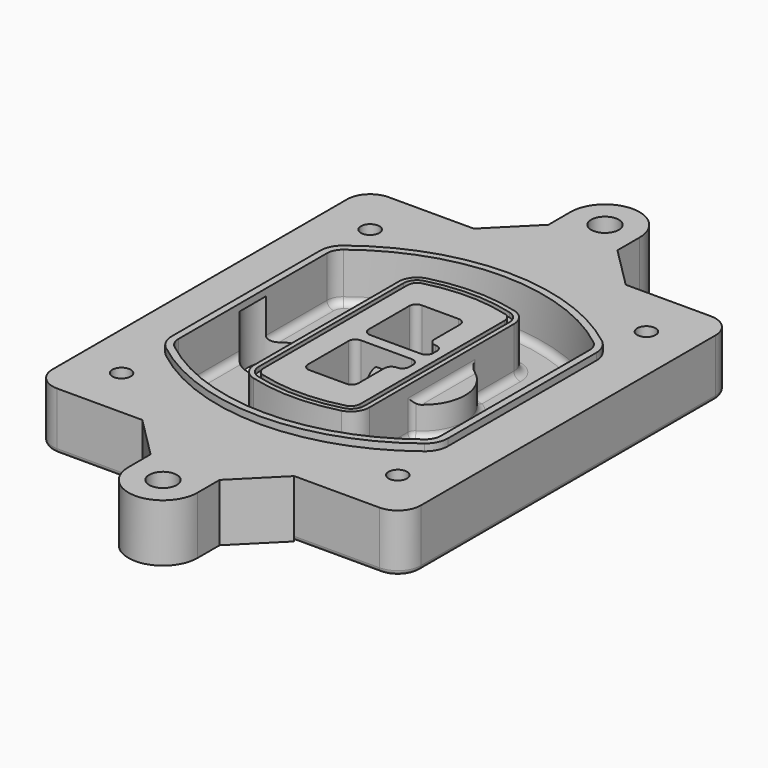
from build123d import *

# Parameters (mm, degrees)
F0_R      = 4
F1_DEPTH  = 25
F2_DEPTH  = 3
F3_DEPTH  = 18
F5_DEPTH  = 21
F6_DEPTH  = 2
F8_DEPTH  = 20
F9_DEPTH  = 16
F10_DEPTH = 25
F7_R      = 6
F7_R_2    = 4
F11_DEPTH = 6
F13_DEPTH = 9
F14_R     = 3
F15_R     = 2
F16_R     = 6
F17_DEPTH = 25


with BuildPart() as f1:
    # F0 (on Top) → F1 (new body)
    with BuildSketch(Plane.XY):
        with BuildLine():
            ThreePointArc((-80, -80), (-77.0710678119, -87.0710678119), (-70, -90))
            Line((-70, -90), (70, -90))
            ThreePointArc((70, -90), (77.0710678119, -87.0710678119), (80, -80))
            Line((80, -80), (80, 80))
            ThreePointArc((80, 80), (77.0710678119, 87.0710678119), (70, 90))
            Line((70, 90), (-70, 90))
            ThreePointArc((-70, 90), (-77.0710678119, 87.0710678119), (-80, 80))
            Line((-80, 80), (-80, -80))
        make_face()
        with Locations((-60, -67.5)):
            Circle(F0_R, mode=Mode.SUBTRACT)
        with Locations((60, -67.5)):
            Circle(F0_R, mode=Mode.SUBTRACT)
        with Locations((-60, 67.5)):
            Circle(F0_R, mode=Mode.SUBTRACT)
        with BuildLine():
            ThreePointArc((-64, 40.2934422872), (-62.5820384798, 46.4328484224), (-58.6153846154, 51.3286200352))
            ThreePointArc((-58.6153846154, 51.3286200352), (0, 71.5), (58.6153846154, 51.3286200352))
            ThreePointArc((58.6153846154, 51.3286200352), (62.5820384798, 46.4328484224), (64, 40.2934422872))
            Line((64, 40.2934422872), (64, -40.2934422872))
            ThreePointArc((64, -40.2934422872), (62.5820384798, -46.4328484224), (58.6153846154, -51.3286200352))
            ThreePointArc((58.6153846154, -51.3286200352), (0, -71.5), (-58.6153846154, -51.3286200352))
            ThreePointArc((-58.6153846154, -51.3286200352), (-62.5820384798, -46.4328484224), (-64, -40.2934422872))
            Line((-64, -40.2934422872), (-64, 40.2934422872))
        make_face(mode=Mode.SUBTRACT)
        with Locations((60, 67.5)):
            Circle(F0_R, mode=Mode.SUBTRACT)
        with BuildLine():
            ThreePointArc((58.6153846154, 51.3286200352), (0, 71.5), (-58.6153846154, 51.3286200352))
            ThreePointArc((-58.6153846154, 51.3286200352), (-62.5820384798, 46.4328484224), (-64, 40.2934422872))
            Line((-64, 40.2934422872), (-64, -40.2934422872))
            ThreePointArc((-64, -40.2934422872), (-62.5820384798, -46.4328484224), (-58.6153846154, -51.3286200352))
            ThreePointArc((-58.6153846154, -51.3286200352), (0, -71.5), (58.6153846154, -51.3286200352))
            ThreePointArc((58.6153846154, -51.3286200352), (62.5820384798, -46.4328484224), (64, -40.2934422872))
            Line((64, -40.2934422872), (64, 40.2934422872))
            ThreePointArc((64, 40.2934422872), (62.5820384798, 46.4328484224), (58.6153846154, 51.3286200352))
        make_face()
        with BuildLine():
            Line((-60, -40.2934422872), (-60, 40.2934422872))
            ThreePointArc((-60, 40.2934422872), (-58.9871703427, 44.6787323838), (-56.1538461538, 48.1757121072))
            ThreePointArc((-56.1538461538, 48.1757121072), (0, 67.5), (56.1538461538, 48.1757121072))
            ThreePointArc((56.1538461538, 48.1757121072), (58.9871703427, 44.6787323838), (60, 40.2934422872))
            Line((60, 40.2934422872), (60, -40.2934422872))
            ThreePointArc((60, -40.2934422872), (58.9871703427, -44.6787323838), (56.1538461538, -48.1757121072))
            ThreePointArc((56.1538461538, -48.1757121072), (0, -67.5), (-56.1538461538, -48.1757121072))
            ThreePointArc((-56.1538461538, -48.1757121072), (-58.9871703427, -44.6787323838), (-60, -40.2934422872))
        make_face(mode=Mode.SUBTRACT)
        with BuildLine():
            ThreePointArc((-56.1538461538, 48.1757121072), (-58.9871703427, 44.6787323838), (-60, 40.2934422872))
            Line((-60, 40.2934422872), (-60, -40.2934422872))
            ThreePointArc((-60, -40.2934422872), (-58.9871703427, -44.6787323838), (-56.1538461538, -48.1757121072))
            ThreePointArc((-56.1538461538, -48.1757121072), (0, -67.5), (56.1538461538, -48.1757121072))
            ThreePointArc((56.1538461538, -48.1757121072), (58.9871703427, -44.6787323838), (60, -40.2934422872))
            Line((60, -40.2934422872), (60, 40.2934422872))
            ThreePointArc((60, 40.2934422872), (58.9871703427, 44.6787323838), (56.1538461538, 48.1757121072))
            ThreePointArc((56.1538461538, 48.1757121072), (0, 67.5), (-56.1538461538, 48.1757121072))
        make_face()
        with BuildLine():
            ThreePointArc((54.3076923077, 45.8110311612), (56.2910192399, 43.3631453548), (57, 40.2934422872))
            Line((57, 40.2934422872), (57, -40.2934422872))
            ThreePointArc((57, -40.2934422872), (56.2910192399, -43.3631453548), (54.3076923077, -45.8110311612))
            ThreePointArc((54.3076923077, -45.8110311612), (0, -64.5), (-54.3076923077, -45.8110311612))
            ThreePointArc((-54.3076923077, -45.8110311612), (-56.2910192399, -43.3631453548), (-57, -40.2934422872))
            Line((-57, -40.2934422872), (-57, 40.2934422872))
            ThreePointArc((-57, 40.2934422872), (-56.2910192399, 43.3631453548), (-54.3076923077, 45.8110311612))
            ThreePointArc((-54.3076923077, 45.8110311612), (0, 64.5), (54.3076923077, 45.8110311612))
        make_face(mode=Mode.SUBTRACT)
        with BuildLine():
            Line((57, -40.2934422872), (57, 40.2934422872))
            ThreePointArc((57, 40.2934422872), (56.2910192399, 43.3631453548), (54.3076923077, 45.8110311612))
            ThreePointArc((54.3076923077, 45.8110311612), (0, 64.5), (-54.3076923077, 45.8110311612))
            ThreePointArc((-54.3076923077, 45.8110311612), (-56.2910192399, 43.3631453548), (-57, 40.2934422872))
            Line((-57, 40.2934422872), (-57, -40.2934422872))
            ThreePointArc((-57, -40.2934422872), (-56.2910192399, -43.3631453548), (-54.3076923077, -45.8110311612))
            ThreePointArc((-54.3076923077, -45.8110311612), (0, -64.5), (54.3076923077, -45.8110311612))
            ThreePointArc((54.3076923077, -45.8110311612), (56.2910192399, -43.3631453548), (57, -40.2934422872))
        make_face()
    extrude(amount=-F1_DEPTH)

    # F0 (on Top) → F2 (join)
    with BuildSketch(Plane.XY):
        with BuildLine():
            ThreePointArc((-56.1538461538, 48.1757121072), (-58.9871703427, 44.6787323838), (-60, 40.2934422872))
            Line((-60, 40.2934422872), (-60, -40.2934422872))
            ThreePointArc((-60, -40.2934422872), (-58.9871703427, -44.6787323838), (-56.1538461538, -48.1757121072))
            ThreePointArc((-56.1538461538, -48.1757121072), (0, -67.5), (56.1538461538, -48.1757121072))
            ThreePointArc((56.1538461538, -48.1757121072), (58.9871703427, -44.6787323838), (60, -40.2934422872))
            Line((60, -40.2934422872), (60, 40.2934422872))
            ThreePointArc((60, 40.2934422872), (58.9871703427, 44.6787323838), (56.1538461538, 48.1757121072))
            ThreePointArc((56.1538461538, 48.1757121072), (0, 67.5), (-56.1538461538, 48.1757121072))
        make_face()
        with BuildLine():
            ThreePointArc((54.3076923077, 45.8110311612), (56.2910192399, 43.3631453548), (57, 40.2934422872))
            Line((57, 40.2934422872), (57, -40.2934422872))
            ThreePointArc((57, -40.2934422872), (56.2910192399, -43.3631453548), (54.3076923077, -45.8110311612))
            ThreePointArc((54.3076923077, -45.8110311612), (0, -64.5), (-54.3076923077, -45.8110311612))
            ThreePointArc((-54.3076923077, -45.8110311612), (-56.2910192399, -43.3631453548), (-57, -40.2934422872))
            Line((-57, -40.2934422872), (-57, 40.2934422872))
            ThreePointArc((-57, 40.2934422872), (-56.2910192399, 43.3631453548), (-54.3076923077, 45.8110311612))
            ThreePointArc((-54.3076923077, 45.8110311612), (0, 64.5), (54.3076923077, 45.8110311612))
        make_face(mode=Mode.SUBTRACT)
    extrude(amount=F2_DEPTH)

    # F0 (on Top) → F3 (cut)
    with BuildSketch(Plane.XY):
        with BuildLine():
            Line((57, -40.2934422872), (57, 40.2934422872))
            ThreePointArc((57, 40.2934422872), (56.2910192399, 43.3631453548), (54.3076923077, 45.8110311612))
            ThreePointArc((54.3076923077, 45.8110311612), (0, 64.5), (-54.3076923077, 45.8110311612))
            ThreePointArc((-54.3076923077, 45.8110311612), (-56.2910192399, 43.3631453548), (-57, 40.2934422872))
            Line((-57, 40.2934422872), (-57, -40.2934422872))
            ThreePointArc((-57, -40.2934422872), (-56.2910192399, -43.3631453548), (-54.3076923077, -45.8110311612))
            ThreePointArc((-54.3076923077, -45.8110311612), (0, -64.5), (54.3076923077, -45.8110311612))
            ThreePointArc((54.3076923077, -45.8110311612), (56.2910192399, -43.3631453548), (57, -40.2934422872))
        make_face()
    extrude(amount=-F3_DEPTH, mode=Mode.SUBTRACT)

    # F4 (on face) → F5 (join, through all)
    with BuildSketch(Plane.XY.offset(3)):
        with BuildLine():
            ThreePointArc((-25, -39.2465276821), (-23.3511545998, -44.1109737193), (-19.0842911877, -46.9702398883))
            ThreePointArc((-19.0842911877, -46.9702398883), (0, -49.5), (19.0842911877, -46.9702398883))
            ThreePointArc((19.0842911877, -46.9702398883), (23.3511545998, -44.1109737193), (25, -39.2465276821))
            Line((25, -39.2465276821), (25, 39.2465276821))
            ThreePointArc((25, 39.2465276821), (23.3511545998, 44.1109737193), (19.0842911877, 46.9702398883))
            ThreePointArc((19.0842911877, 46.9702398883), (0, 49.5), (-19.0842911877, 46.9702398883))
            ThreePointArc((-19.0842911877, 46.9702398883), (-23.3511545998, 44.1109737193), (-25, 39.2465276821))
            Line((-25, 39.2465276821), (-25, -39.2465276821))
        make_face()
        with BuildLine():
            ThreePointArc((18.5632183908, 45.0393118368), (21.7633659499, 42.89486221), (23, 39.2465276821))
            Line((23, 39.2465276821), (23, -39.2465276821))
            ThreePointArc((23, -39.2465276821), (21.7633659499, -42.89486221), (18.5632183908, -45.0393118368))
            ThreePointArc((18.5632183908, -45.0393118368), (0, -47.5), (-18.5632183908, -45.0393118368))
            ThreePointArc((-18.5632183908, -45.0393118368), (-21.7633659499, -42.89486221), (-23, -39.2465276821))
            Line((-23, -39.2465276821), (-23, 39.2465276821))
            ThreePointArc((-23, 39.2465276821), (-21.7633659499, 42.89486221), (-18.5632183908, 45.0393118368))
            ThreePointArc((-18.5632183908, 45.0393118368), (0, 47.5), (18.5632183908, 45.0393118368))
        make_face(mode=Mode.SUBTRACT)
        with BuildLine():
            Line((23, -39.2465276821), (23, 39.2465276821))
            ThreePointArc((23, 39.2465276821), (21.7633659499, 42.89486221), (18.5632183908, 45.0393118368))
            ThreePointArc((18.5632183908, 45.0393118368), (0, 47.5), (-18.5632183908, 45.0393118368))
            ThreePointArc((-18.5632183908, 45.0393118368), (-21.7633659499, 42.89486221), (-23, 39.2465276821))
            Line((-23, 39.2465276821), (-23, -39.2465276821))
            ThreePointArc((-23, -39.2465276821), (-21.7633659499, -42.89486221), (-18.5632183908, -45.0393118368))
            ThreePointArc((-18.5632183908, -45.0393118368), (0, -47.5), (18.5632183908, -45.0393118368))
            ThreePointArc((18.5632183908, -45.0393118368), (21.7633659499, -42.89486221), (23, -39.2465276821))
        make_face()
        with BuildLine():
            ThreePointArc((18.0421455939, 43.1083837852), (20.1755772999, 41.6787507007), (21, 39.2465276821))
            Line((21, 39.2465276821), (21, -39.2465276821))
            ThreePointArc((21, -39.2465276821), (20.1755772999, -41.6787507007), (18.0421455939, -43.1083837852))
            ThreePointArc((18.0421455939, -43.1083837852), (0, -45.5), (-18.0421455939, -43.1083837852))
            ThreePointArc((-18.0421455939, -43.1083837852), (-20.1755772999, -41.6787507007), (-21, -39.2465276821))
            Line((-21, -39.2465276821), (-21, 39.2465276821))
            ThreePointArc((-21, 39.2465276821), (-20.1755772999, 41.6787507007), (-18.0421455939, 43.1083837852))
            ThreePointArc((-18.0421455939, 43.1083837852), (0, 45.5), (18.0421455939, 43.1083837852))
        make_face(mode=Mode.SUBTRACT)
        with BuildLine():
            Line((21, -39.2465276821), (21, 39.2465276821))
            ThreePointArc((21, 39.2465276821), (20.1755772999, 41.6787507007), (18.0421455939, 43.1083837852))
            ThreePointArc((18.0421455939, 43.1083837852), (0, 45.5), (-18.0421455939, 43.1083837852))
            ThreePointArc((-18.0421455939, 43.1083837852), (-20.1755772999, 41.6787507007), (-21, 39.2465276821))
            Line((-21, 39.2465276821), (-21, -39.2465276821))
            ThreePointArc((-21, -39.2465276821), (-20.1755772999, -41.6787507007), (-18.0421455939, -43.1083837852))
            ThreePointArc((-18.0421455939, -43.1083837852), (0, -45.5), (18.0421455939, -43.1083837852))
            ThreePointArc((18.0421455939, -43.1083837852), (20.1755772999, -41.6787507007), (21, -39.2465276821))
        make_face()
        with BuildLine():
            Line((-8, -2.5), (14, -2.5))
            ThreePointArc((14, -2.5), (16.1213203436, -3.3786796564), (17, -5.5))
            Line((17, -5.5), (17, -7.5))
            ThreePointArc((17, -7.5), (16.1213203436, -9.6213203436), (14, -10.5))
            ThreePointArc((14, -10.5), (11.8786796564, -11.3786796564), (11, -13.5))
            Line((11, -13.5), (11, -27.5))
            ThreePointArc((11, -27.5), (10.1213203436, -29.6213203436), (8, -30.5))
            Line((8, -30.5), (-8, -30.5))
            ThreePointArc((-8, -30.5), (-10.1213203436, -29.6213203436), (-11, -27.5))
            Line((-11, -27.5), (-11, -5.5))
            ThreePointArc((-11, -5.5), (-10.1213203436, -3.3786796564), (-8, -2.5))
        make_face(mode=Mode.SUBTRACT)
        with BuildLine():
            ThreePointArc((-8, 2.5), (-10.1213203436, 3.3786796564), (-11, 5.5))
            Line((-11, 5.5), (-11, 27.5))
            ThreePointArc((-11, 27.5), (-10.1213203436, 29.6213203436), (-8, 30.5))
            Line((-8, 30.5), (8, 30.5))
            ThreePointArc((8, 30.5), (10.1213203436, 29.6213203436), (11, 27.5))
            Line((11, 27.5), (11, 13.5))
            ThreePointArc((11, 13.5), (11.8786796564, 11.3786796564), (14, 10.5))
            ThreePointArc((14, 10.5), (16.1213203436, 9.6213203436), (17, 7.5))
            Line((17, 7.5), (17, 5.5))
            ThreePointArc((17, 5.5), (16.1213203436, 3.3786796564), (14, 2.5))
            Line((14, 2.5), (-8, 2.5))
        make_face(mode=Mode.SUBTRACT)
    extrude(amount=-F5_DEPTH)

    # F4 (on face) → F6 (cut)
    with BuildSketch(Plane.XY.offset(3)):
        with BuildLine():
            Line((23, -39.2465276821), (23, 39.2465276821))
            ThreePointArc((23, 39.2465276821), (21.7633659499, 42.89486221), (18.5632183908, 45.0393118368))
            ThreePointArc((18.5632183908, 45.0393118368), (0, 47.5), (-18.5632183908, 45.0393118368))
            ThreePointArc((-18.5632183908, 45.0393118368), (-21.7633659499, 42.89486221), (-23, 39.2465276821))
            Line((-23, 39.2465276821), (-23, -39.2465276821))
            ThreePointArc((-23, -39.2465276821), (-21.7633659499, -42.89486221), (-18.5632183908, -45.0393118368))
            ThreePointArc((-18.5632183908, -45.0393118368), (0, -47.5), (18.5632183908, -45.0393118368))
            ThreePointArc((18.5632183908, -45.0393118368), (21.7633659499, -42.89486221), (23, -39.2465276821))
        make_face()
        with BuildLine():
            ThreePointArc((18.0421455939, 43.1083837852), (20.1755772999, 41.6787507007), (21, 39.2465276821))
            Line((21, 39.2465276821), (21, -39.2465276821))
            ThreePointArc((21, -39.2465276821), (20.1755772999, -41.6787507007), (18.0421455939, -43.1083837852))
            ThreePointArc((18.0421455939, -43.1083837852), (0, -45.5), (-18.0421455939, -43.1083837852))
            ThreePointArc((-18.0421455939, -43.1083837852), (-20.1755772999, -41.6787507007), (-21, -39.2465276821))
            Line((-21, -39.2465276821), (-21, 39.2465276821))
            ThreePointArc((-21, 39.2465276821), (-20.1755772999, 41.6787507007), (-18.0421455939, 43.1083837852))
            ThreePointArc((-18.0421455939, 43.1083837852), (0, 45.5), (18.0421455939, 43.1083837852))
        make_face(mode=Mode.SUBTRACT)
    extrude(amount=-F6_DEPTH, mode=Mode.SUBTRACT)

    # F7 (on face) → F8 (join)
    with BuildSketch(Plane(origin=(0, 0, -25), x_dir=(1, 0, 0), z_dir=(0, 0, -1))):
        with BuildLine():
            ThreePointArc((3.28842436, 0), (16.7567035675, 13.4682792075), (30.224982775, 0))
            Line((30.224982775, 0), (35.224982775, 0))
            ThreePointArc((35.224982775, 0), (16.7567035675, 18.4682792075), (-1.71157564, 0))
            Line((-1.71157564, 0), (3.28842436, 0))
        make_face()
        with BuildLine():
            Line((3.28842436, 0), (30.224982775, 0))
            ThreePointArc((30.224982775, 0), (16.7567035675, 13.4682792075), (3.28842436, 0))
        make_face()
        with BuildLine():
            ThreePointArc((3.28842436, 0), (16.7567035675, -13.4682792075), (30.224982775, 0))
            Line((30.224982775, 0), (3.28842436, 0))
        make_face()
        with BuildLine():
            Line((35.224982775, 0), (30.224982775, 0))
            ThreePointArc((30.224982775, 0), (16.7567035675, -13.4682792075), (3.28842436, 0))
            Line((3.28842436, 0), (-1.71157564, 0))
            ThreePointArc((-1.71157564, 0), (16.7567035675, -18.4682792075), (35.224982775, 0))
        make_face()
    extrude(amount=-F8_DEPTH)

    # F7 (on face) → F9 (cut)
    with BuildSketch(Plane(origin=(0, 0, -25), x_dir=(1, 0, 0), z_dir=(0, 0, -1))):
        with BuildLine():
            Line((3.28842436, 0), (30.224982775, 0))
            ThreePointArc((30.224982775, 0), (16.7567035675, 13.4682792075), (3.28842436, 0))
        make_face()
        with BuildLine():
            ThreePointArc((3.28842436, 0), (16.7567035675, -13.4682792075), (30.224982775, 0))
            Line((30.224982775, 0), (3.28842436, 0))
        make_face()
    extrude(amount=-F9_DEPTH, mode=Mode.SUBTRACT)

    # F7 (on face) → F10 (cut)
    with BuildSketch(Plane(origin=(0, 0, -25), x_dir=(1, 0, 0), z_dir=(0, 0, -1))):
        with BuildLine():
            Line((-59.0318229325, 0), (-32.0952645175, 0))
            ThreePointArc((-32.0952645175, 0), (-45.563543725, 13.4682792075), (-59.0318229325, 0))
        make_face()
        with BuildLine():
            ThreePointArc((-59.0318229325, 0), (-45.563543725, -13.4682792075), (-32.0952645175, 0))
            Line((-32.0952645175, 0), (-59.0318229325, 0))
        make_face()
    extrude(amount=-F10_DEPTH, mode=Mode.SUBTRACT)

    # F7 (on face) → F11 (cut)
    with BuildSketch(Plane(origin=(0, 0, -25), x_dir=(1, 0, 0), z_dir=(0, 0, -1))):
        with Locations((60, -67.5)):
            Circle(F7_R)
        with Locations((60, -67.5)):
            Circle(F7_R_2, mode=Mode.SUBTRACT)
        with Locations((60, -67.5)):
            Circle(F7_R)
        with Locations((60, -67.5)):
            Circle(F7_R_2, mode=Mode.SUBTRACT)
        with Locations((-60, -67.5)):
            Circle(F7_R)
        with Locations((-60, -67.5)):
            Circle(F7_R_2, mode=Mode.SUBTRACT)
        with Locations((-60, -67.5)):
            Circle(F7_R)
        with Locations((-60, -67.5)):
            Circle(F7_R_2, mode=Mode.SUBTRACT)
        with Locations((-60, 67.5)):
            Circle(F7_R)
        with Locations((-60, 67.5)):
            Circle(F7_R_2, mode=Mode.SUBTRACT)
        with Locations((-60, 67.5)):
            Circle(F7_R)
        with Locations((-60, 67.5)):
            Circle(F7_R_2, mode=Mode.SUBTRACT)
        with Locations((60, 67.5)):
            Circle(F7_R)
        with Locations((60, 67.5)):
            Circle(F7_R_2, mode=Mode.SUBTRACT)
        with Locations((60, 67.5)):
            Circle(F7_R)
        with Locations((60, 67.5)):
            Circle(F7_R_2, mode=Mode.SUBTRACT)
    extrude(amount=-F11_DEPTH, mode=Mode.SUBTRACT)

    # F12 (on face) → F13 (cut, through all)
    with BuildSketch(Plane(origin=(0, 0, -9), x_dir=(1, 0, 0), z_dir=(0, 0, -1))):
        with BuildLine():
            Line((11, 13.5), (11, 17.5481537753))
            ThreePointArc((11, 17.5481537753), (2.5696536419, 11.8239143813), (-1.5415842455, 2.5))
            Line((-1.5415842455, 2.5), (3.5224848595, 2.5))
            ThreePointArc((3.5224848595, 2.5), (6.1857188154, 8.3455872281), (11.2536447004, 12.2927168648))
            ThreePointArc((11.2536447004, 12.2927168648), (11.0640958889, 12.8831798879), (11, 13.5))
        make_face()
        with BuildLine():
            ThreePointArc((11.2536447004, -12.2927168648), (6.1857188154, -8.3455872281), (3.5224848595, -2.5))
            Line((3.5224848595, -2.5), (-1.5415842455, -2.5))
            ThreePointArc((-1.5415842455, -2.5), (2.5696536419, -11.8239143813), (11, -17.5481537753))
            Line((11, -17.5481537753), (11, -13.5))
            ThreePointArc((11, -13.5), (11.0640958889, -12.8831798879), (11.2536447004, -12.2927168648))
        make_face()
        with BuildLine():
            ThreePointArc((11.2536447004, 12.2927168648), (6.1857188154, 8.3455872281), (3.5224848595, 2.5))
            Line((3.5224848595, 2.5), (14, 2.5))
            ThreePointArc((14, 2.5), (16.1213203436, 3.3786796564), (17, 5.5))
            Line((17, 5.5), (17, 7.5))
            ThreePointArc((17, 7.5), (16.1213203436, 9.6213203436), (14, 10.5))
            ThreePointArc((14, 10.5), (12.3601599782, 10.9878446101), (11.2536447004, 12.2927168648))
        make_face()
        with BuildLine():
            Line((14, -2.5), (3.5224848595, -2.5))
            ThreePointArc((3.5224848595, -2.5), (6.1857188154, -8.3455872281), (11.2536447004, -12.2927168648))
            ThreePointArc((11.2536447004, -12.2927168648), (12.3601599782, -10.9878446101), (14, -10.5))
            ThreePointArc((14, -10.5), (16.1213203436, -9.6213203436), (17, -7.5))
            Line((17, -7.5), (17, -5.5))
            ThreePointArc((17, -5.5), (16.1213203436, -3.3786796564), (14, -2.5))
        make_face()
    extrude(amount=F13_DEPTH, mode=Mode.SUBTRACT)

    # F14
    f14_edges = [f1.edges().sort_by_distance(p)[0] for p in [
        (-57, -23.703476, -18),
        (-57, 23.703476, -18),
        (25, 0, -5),
        (25, 16.526506, -11.5),
        (25, -16.526506, -11.5),
        (25, -27.886517, -18),
        (35.224983, 0, -18),
    ]]
    fillet(f14_edges, radius=F14_R)

    # F15
    f15_edges = [f1.edges().sort_by_distance(p)[0] for p in [
        (0, -90, -25),
    ]]
    fillet(f15_edges, radius=F15_R)

    # F16 (on face) → F17 (join)
    with BuildSketch(Plane.XY):
        with BuildLine():
            Line((33, -90), (-33, -90))
            Line((-33, -90), (-15, -108))
            Line((-15, -108), (-15, -120))
            ThreePointArc((-15, -120), (0, -135), (15, -120))
            Line((15, -120), (15, -108))
            Line((15, -108), (33, -90))
        make_face()
        with Locations((0, -120)):
            Circle(F16_R, mode=Mode.SUBTRACT)
        with BuildLine():
            Line((-15, 108), (-33, 90))
            Line((-33, 90), (33, 90))
            Line((33, 90), (15, 108))
            Line((15, 108), (15, 120))
            ThreePointArc((15, 120), (0, 135), (-15, 120))
            Line((-15, 120), (-15, 108))
        make_face()
        with Locations((0, 120)):
            Circle(F16_R, mode=Mode.SUBTRACT)
    extrude(amount=-F17_DEPTH)


solid = f1.part
